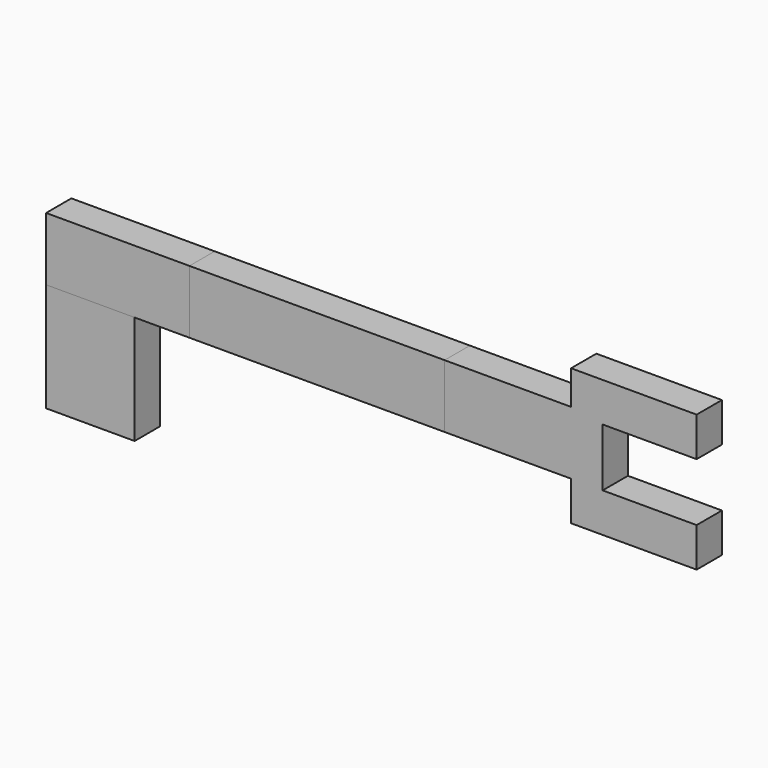
from build123d import *

# Parameters (mm, degrees)
F1_DEPTH = 250
F2_DEPTH = 250
F3_DEPTH = 250
F4_DEPTH = 250
F5_W     = 250
F5_H     = 1079.121173
F6_DEPTH = 250
F7_W     = 992.848635
F7_H     = 310.168312
F8_DEPTH = 250


with BuildPart() as f1:
    # F0 (on Front) → F1 (new body)
    with BuildSketch(Plane.XZ):
        Polygon((350, 0), (350, 860), (-350, 860), (-350, 0), (0, 0), align=None)
    extrude(amount=-F1_DEPTH)


with BuildPart() as f2:
    # F0 (on Front) → F2 (new body)
    with BuildSketch(Plane.XZ):
        with BuildLine():
            ThreePointArc((-57.795776, 1165.314087), (0, 1190), (57.795776, 1165.314087))
            Line((57.795776, 1165.314087), (350, 860))
            Line((350, 860), (783.396707, 860))
            Line((783.396707, 860), (783.396707, 1110))
            Line((783.396707, 1110), (783.396707, 1360))
            Line((783.396707, 1360), (-350, 1360))
            Line((-350, 1360), (-350, 860))
            Line((-350, 860), (-57.795776, 1165.314087))
        make_face()
        with BuildLine():
            ThreePointArc((57.795776, 1165.314087), (74.241707, 1139.802163), (80, 1110))
            ThreePointArc((80, 1110), (-29.802163, 1035.758293), (-57.795776, 1165.314087))
            Line((-57.795776, 1165.314087), (-350, 860))
            Line((-350, 860), (350, 860))
            Line((350, 860), (57.795776, 1165.314087))
        make_face()
        with BuildLine():
            ThreePointArc((-57.795776, 1165.314087), (-29.802163, 1035.758293), (80, 1110))
            ThreePointArc((80, 1110), (74.241707, 1139.802163), (57.795776, 1165.314087))
            ThreePointArc((57.795776, 1165.314087), (0, 1190), (-57.795776, 1165.314087))
        make_face()
    extrude(amount=-F2_DEPTH)


with BuildPart() as f3:
    # F0 (on Front) → F3 (new body)
    with BuildSketch(Plane.XZ):
        with BuildLine():
            Line((783.396707, 1110), (783.396707, 860))
            Line((783.396707, 860), (1033.396707, 860))
            ThreePointArc((1033.396707, 860), (856.620011, 933.223305), (783.396707, 1110))
        make_face()
        with BuildLine():
            Line((783.396707, 1360), (783.396707, 1110))
            ThreePointArc((783.396707, 1110), (856.620011, 1286.776695), (1033.396707, 1360))
            Line((1033.396707, 1360), (783.396707, 1360))
        make_face()
        with BuildLine():
            ThreePointArc((783.396707, 1110), (856.620011, 933.223305), (1033.396707, 860))
            Line((1033.396707, 860), (1033.396707, 1360))
            ThreePointArc((1033.396707, 1360), (856.620011, 1286.776695), (783.396707, 1110))
        make_face()
        with BuildLine():
            Line((1033.396707, 1360), (1033.396707, 860))
            ThreePointArc((1033.396707, 860), (1210.173402, 933.223305), (1283.396707, 1110))
            ThreePointArc((1283.396707, 1110), (1210.173402, 1286.776695), (1033.396707, 1360))
        make_face()
        with BuildLine():
            ThreePointArc((1283.396707, 1110), (1210.173402, 933.223305), (1033.396707, 860))
            Line((1033.396707, 860), (2801.028013, 860))
            Line((2801.028013, 860), (2801.028013, 1110))
            Line((2801.028013, 1110), (2801.028013, 1360))
            Line((2801.028013, 1360), (1033.396707, 1360))
            ThreePointArc((1033.396707, 1360), (1210.173402, 1286.776695), (1283.396707, 1110))
        make_face()
    extrude(amount=-F3_DEPTH)


with BuildPart() as f4:
    # F0 (on Front) → F4 (new body)
    with BuildSketch(Plane.XZ):
        with BuildLine():
            Line((3051.028013, 1360), (2801.028013, 1360))
            Line((2801.028013, 1360), (2801.028013, 1110))
            ThreePointArc((2801.028013, 1110), (2874.251318, 1286.776695), (3051.028013, 1360))
        make_face()
        with BuildLine():
            Line((3051.028013, 1360), (3051.028013, 860))
            ThreePointArc((3051.028013, 860), (3227.804709, 933.223305), (3301.028013, 1110))
            ThreePointArc((3301.028013, 1110), (3227.804709, 1286.776695), (3051.028013, 1360))
        make_face()
        with BuildLine():
            ThreePointArc((2801.028013, 1110), (2874.251318, 933.223305), (3051.028013, 860))
            Line((3051.028013, 860), (3051.028013, 1360))
            ThreePointArc((3051.028013, 1360), (2874.251318, 1286.776695), (2801.028013, 1110))
        make_face()
        with BuildLine():
            Line((2801.028013, 1110), (2801.028013, 860))
            Line((2801.028013, 860), (3051.028013, 860))
            ThreePointArc((3051.028013, 860), (2874.251318, 933.223305), (2801.028013, 1110))
        make_face()
        with BuildLine():
            ThreePointArc((3301.028013, 1110), (3227.804709, 933.223305), (3051.028013, 860))
            Line((3051.028013, 860), (3801.028013, 860))
            Line((3801.028013, 860), (3801.028013, 1360))
            Line((3801.028013, 1360), (3051.028013, 1360))
            ThreePointArc((3051.028013, 1360), (3227.804709, 1286.776695), (3301.028013, 1110))
        make_face()
    extrude(amount=-F4_DEPTH)

    # F5 (on face) → F6 (join)
    with BuildSketch(Plane.YZ.offset(3801.028013)):
        with Locations((125, 1089.392274)):
            Rectangle(F5_W, F5_H)
    extrude(amount=F6_DEPTH)

    # F7 (on face) → F8 (join)
    with BuildSketch(Plane.XZ):
        with Locations((4297.45233, 1473.868705)):
            Rectangle(F7_W, F7_H)
        with Locations((4297.45233, 704.915844)):
            Rectangle(F7_W, F7_H)
    extrude(amount=-F8_DEPTH)


solid = Compound([f1.part, f2.part, f3.part, f4.part])
